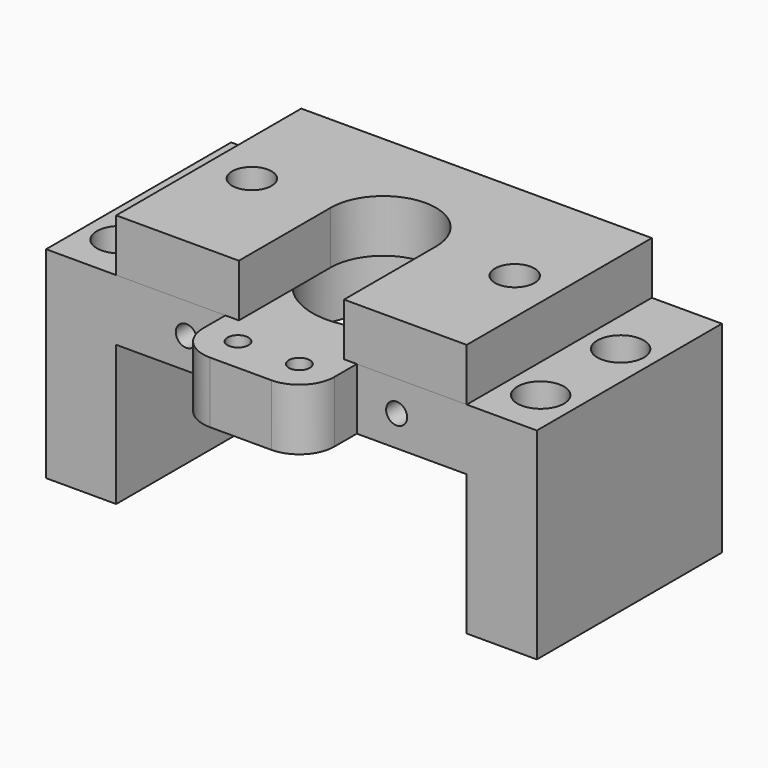
from build123d import *

# Parameters (mm, degrees)
F0_R     = 1.2
F0_R_2   = 8.1
F0_W     = 8
F0_H     = 26.4
F0_R_3   = 2.65
F1_DEPTH = 7
F2_DEPTH = 16
F4_D     = 2.4
F5_R     = 1.6
F6_DEPTH = 25
F8_DEPTH = 2
F5_R_2   = 2.25
F9_DEPTH = 6


with BuildPart() as f1:
    # F0 (on Top) → F1 (new body)
    with BuildSketch(Plane.XY):
        with BuildLine():
            Line((20, 15.3), (-20, 15.3))
            Line((-20, 15.3), (-20, -11.1))
            Line((-20, -11.1), (-7.540837, -11.1))
            Line((-7.540837, -11.1), (-7.540837, -14.3))
            ThreePointArc((-7.540837, -14.3), (-6.369264, -17.128427), (-3.540837, -18.3))
            Line((-3.540837, -18.3), (3.459163, -18.3))
            ThreePointArc((3.459163, -18.3), (6.287591, -17.128427), (7.459163, -14.3))
            Line((7.459163, -14.3), (7.459163, -11.1))
            Line((7.459163, -11.1), (20, -11.1))
            Line((20, -11.1), (20, 15.3))
        make_face()
        with Locations((-3.540837, -14.3)):
            Circle(F0_R, mode=Mode.SUBTRACT)
        with Locations((3.459163, -14.3)):
            Circle(F0_R, mode=Mode.SUBTRACT)
        with Locations((0, 2)):
            Circle(F0_R_2, mode=Mode.SUBTRACT)
        with Locations((-24, 2.1)):
            Rectangle(F0_W, F0_H)
        with Locations((-24, -5.55)):
            Circle(F0_R_3, mode=Mode.SUBTRACT)
        with Locations((-24, 5.85)):
            Circle(F0_R_3, mode=Mode.SUBTRACT)
        with Locations((24, 2.1)):
            Rectangle(F0_W, F0_H)
        with Locations((24, -5.55)):
            Circle(F0_R_3, mode=Mode.SUBTRACT)
        with Locations((24, 5.85)):
            Circle(F0_R_3, mode=Mode.SUBTRACT)
    extrude(amount=F1_DEPTH)

    # F0 (on Top) → F2 (join)
    with BuildSketch(Plane.XY):
        with Locations((24, 2.1)):
            Rectangle(F0_W, F0_H)
        with Locations((24, -5.55)):
            Circle(F0_R_3, mode=Mode.SUBTRACT)
        with Locations((24, 5.85)):
            Circle(F0_R_3, mode=Mode.SUBTRACT)
        with Locations((-24, 2.1)):
            Rectangle(F0_W, F0_H)
        with Locations((-24, -5.55)):
            Circle(F0_R_3, mode=Mode.SUBTRACT)
        with Locations((-24, 5.85)):
            Circle(F0_R_3, mode=Mode.SUBTRACT)
    extrude(amount=-F2_DEPTH)

    # F4 (through all)
    with Locations(Plane(origin=(0, 15.3, 0), x_dir=(-1, 0, 0), z_dir=(0, 1, 0))):
        with Locations((-12, 3.5), (12, 3.5)):
            Hole(F4_D / 2)

    # F5 (on face) → F6 (cut)
    with BuildSketch(Plane.XY.offset(7)):
        with Locations((15, 2)):
            Circle(F5_R)
        with Locations((-15, 2)):
            Circle(F5_R)
    extrude(amount=-F6_DEPTH, mode=Mode.SUBTRACT)

    # F7 (on face) → F8 (cut)
    with BuildSketch(Plane.XY):
        Polygon((-11.5, -0.020726), (-11.5, 4.020726), (-15, 6.041452), (-18.5, 4.020726), (-18.5, -0.020726), (-15, -2.041452), align=None)
        Polygon((11.5, 4.020726), (11.5, -0.020726), (15, -2.041452), (18.5, -0.020726), (18.5, 4.020726), (15, 6.041452), align=None)
    extrude(amount=F8_DEPTH, mode=Mode.SUBTRACT)


with BuildPart() as f9:
    # F5 (on face) → F9 (new body)
    with BuildSketch(Plane.XY.offset(7)):
        with BuildLine():
            ThreePointArc((8.1, 2), (7.556785, -0.916333), (6, -3.441507))
            Line((6, -3.441507), (6, -11.1))
            Line((6, -11.1), (7.459163, -11.1))
            Line((7.459163, -11.1), (20, -11.1))
            Line((20, -11.1), (20, 15.3))
            Line((20, 15.3), (-20, 15.3))
            Line((-20, 15.3), (-20, -11.1))
            Line((-20, -11.1), (-7.540837, -11.1))
            Line((-7.540837, -11.1), (-6, -11.1))
            Line((-6, -11.1), (-6, -3.441507))
            ThreePointArc((-6, -3.441507), (-2.916333, 9.556785), (8.1, 2))
        make_face()
        with Locations((-15, 2)):
            Circle(F5_R_2, mode=Mode.SUBTRACT)
        with Locations((15, 2)):
            Circle(F5_R_2, mode=Mode.SUBTRACT)
        with BuildLine():
            ThreePointArc((-6, 2), (0, 8), (6, 2))
            Line((6, 2), (6, -3.441507))
            ThreePointArc((6, -3.441507), (7.556785, -0.916333), (8.1, 2))
            ThreePointArc((8.1, 2), (-2.916333, 9.556785), (-6, -3.441507))
            Line((-6, -3.441507), (-6, 2))
        make_face()
    extrude(amount=F9_DEPTH)


solid = Compound([f1.part, f9.part])
